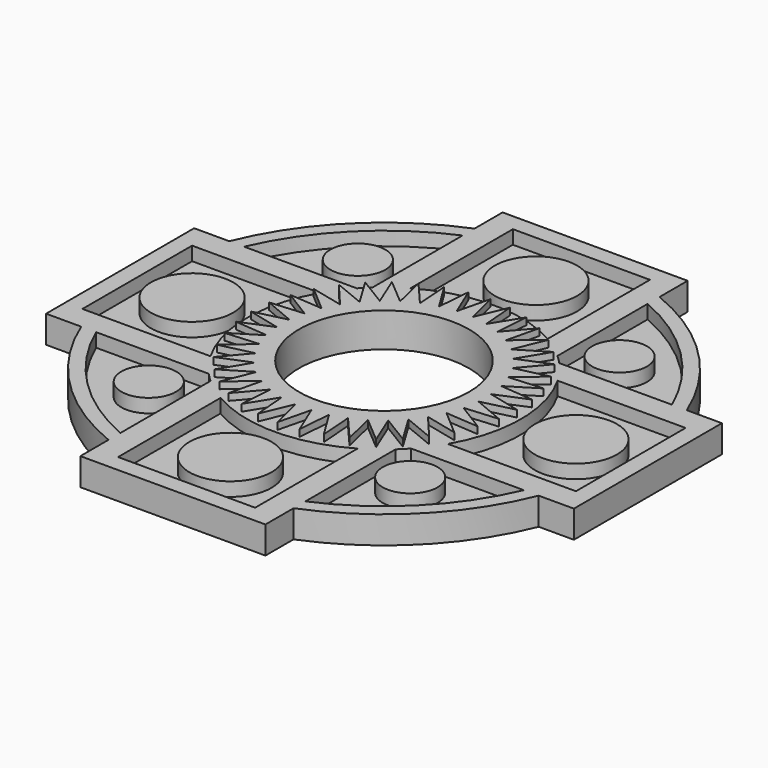
from build123d import *

# Parameters (mm, degrees)
F1_DEPTH  = 12.7
F2_R      = 39.37
F3_DEPTH  = 12.7
F5_DEPTH  = 6.35
F6_R      = 63.5
F6_R_2    = 39.37
F7_DEPTH  = 6.35
F9_DEPTH  = 3.175
F10_R     = 39.37
F11_DEPTH = 3.175
F12_R     = 19.05
F12_R_2   = 12.7
F13_DEPTH = 6.35


with BuildPart() as f1:
    # F0 (on Top) → F1 (new body)
    with BuildSketch(Plane.XY):
        with BuildLine():
            Line((-42.8625, 122.2375), (-42.8625, 105.958936))
            ThreePointArc((-42.8625, 105.958936), (-80.822305, 80.822305), (-105.958936, 42.8625))
            ThreePointArc((-105.958936, 42.8625), (-114.3, 0), (-105.958936, -42.8625))
            ThreePointArc((-105.958936, -42.8625), (-80.822305, -80.822305), (-42.8625, -105.958936))
            ThreePointArc((-42.8625, -105.958936), (0, -114.3), (42.8625, -105.958936))
            ThreePointArc((42.8625, -105.958936), (80.822305, -80.822305), (105.958936, -42.8625))
            Line((105.958936, -42.8625), (122.2375, -42.8625))
            Line((122.2375, -42.8625), (122.2375, 42.8625))
            Line((122.2375, 42.8625), (105.958936, 42.8625))
            ThreePointArc((105.958936, 42.8625), (80.822305, 80.822305), (42.8625, 105.958936))
            Line((42.8625, 105.958936), (42.8625, 122.2375))
            Line((42.8625, 122.2375), (-42.8625, 122.2375))
        make_face()
        with BuildLine():
            ThreePointArc((-105.958936, -42.8625), (-114.3, 0), (-105.958936, 42.8625))
            Line((-105.958936, 42.8625), (-122.2375, 42.8625))
            Line((-122.2375, 42.8625), (-122.2375, -42.8625))
            Line((-122.2375, -42.8625), (-105.958936, -42.8625))
        make_face()
        with BuildLine():
            ThreePointArc((42.8625, -105.958936), (0, -114.3), (-42.8625, -105.958936))
            Line((-42.8625, -105.958936), (-42.8625, -122.2375))
            Line((-42.8625, -122.2375), (42.8625, -122.2375))
            Line((42.8625, -122.2375), (42.8625, -105.958936))
        make_face()
    extrude(amount=F1_DEPTH)

    # F2 (on face) → F3 (cut, through all)
    with BuildSketch(Plane.XY.offset(12.7)):
        Circle(F2_R)
    extrude(amount=-F3_DEPTH, mode=Mode.SUBTRACT)

    # F4 (on face) → F5 (cut)
    with BuildSketch(Plane.XY.offset(12.7)):
        Polygon((31.75, 114.3), (-31.75, 114.3), (-31.75, 31.75), (-114.3, 31.75), (-114.3, -31.75), (-31.75, -31.75), (-31.75, -42.8625), (-31.75, -114.3), (31.75, -114.3), (31.75, -42.8625), (31.75, -31.75), (42.8625, -31.75), (114.3, -31.75), (114.3, 31.75), (31.75, 31.75), align=None)
        with BuildLine():
            Line((-42.8625, -42.8625), (-99.075772, -42.8625))
            ThreePointArc((-99.075772, -42.8625), (-76.332177, -76.332177), (-42.8625, -99.075772))
            Line((-42.8625, -99.075772), (-42.8625, -42.8625))
        make_face()
        with BuildLine():
            Line((42.8625, 42.8625), (99.075772, 42.8625))
            ThreePointArc((99.075772, 42.8625), (76.332177, 76.332177), (42.8625, 99.075772))
            Line((42.8625, 99.075772), (42.8625, 42.8625))
        make_face()
        with BuildLine():
            Line((-42.8625, 42.8625), (-42.8625, 99.075772))
            ThreePointArc((-42.8625, 99.075772), (-76.332177, 76.332177), (-99.075772, 42.8625))
            Line((-99.075772, 42.8625), (-42.8625, 42.8625))
        make_face()
        with BuildLine():
            Line((42.8625, -42.8625), (42.8625, -99.075772))
            ThreePointArc((42.8625, -99.075772), (76.332177, -76.332177), (99.075772, -42.8625))
            Line((99.075772, -42.8625), (42.8625, -42.8625))
        make_face()
    extrude(amount=-F5_DEPTH, mode=Mode.SUBTRACT)

    # F6 (on face) → F7 (join)
    with BuildSketch(Plane.XY.offset(6.35)):
        Circle(F6_R)
        Circle(F6_R_2, mode=Mode.SUBTRACT)
    extrude(amount=F7_DEPTH)

    # F8 (on face) → F9 (join)
    with BuildSketch(Plane.XY.offset(12.7)):
        Polygon((3.656339, 46.667791), (0, 61.695147), (-3.689128, 46.665211), (-9.651247, 60.935578), (-10.943756, 45.513578), (-19.064849, 58.675572), (-17.928912, 43.24125), (-28.009011, 54.970779), (-24.472599, 39.904178), (-36.263498, 49.912423), (-30.41369, 35.584534), (-43.625057, 43.625057), (-35.605894, 30.38868), (-49.912423, 36.263498), (-39.921364, 24.444555), (-54.970779, 28.009011), (-43.253836, 17.898525), (-58.675572, 19.064849), (-45.521256, 10.911774), (-60.935578, 9.651247), (-46.667791, 3.656339), (-61.695147, 0), (-46.665211, -3.689128), (-60.935578, -9.651247), (-45.513578, -10.943756), (-58.675572, -19.064849), (-43.24125, -17.928912), (-54.970779, -28.009011), (-39.904178, -24.472599), (-49.912423, -36.263498), (-35.584534, -30.41369), (-43.625057, -43.625057), (-30.38868, -35.605894), (-36.263498, -49.912423), (-24.444555, -39.921364), (-28.009011, -54.970779), (-17.898525, -43.253836), (-19.064849, -58.675572), (-10.911774, -45.521256), (-9.651247, -60.935578), (-3.656339, -46.667791), (0, -61.695147), (3.689128, -46.665211), (9.651247, -60.935578), (10.943756, -45.513578), (19.064849, -58.675572), (17.928912, -43.24125), (28.009011, -54.970779), (24.472599, -39.904178), (36.263498, -49.912423), (30.41369, -35.584534), (43.625057, -43.625057), (35.605894, -30.38868), (49.912423, -36.263498), (39.921364, -24.444555), (54.970779, -28.009011), (43.253836, -17.898525), (58.675572, -19.064849), (45.521256, -10.911774), (60.935578, -9.651247), (46.667791, -3.656339), (61.695147, 0), (46.665211, 3.689128), (60.935578, 9.651247), (45.513578, 10.943756), (58.675572, 19.064849), (43.24125, 17.928912), (54.970779, 28.009011), (39.904178, 24.472599), (49.912423, 36.263498), (35.584534, 30.41369), (43.625057, 43.625057), (30.38868, 35.605894), (36.263498, 49.912423), (24.444555, 39.921364), (28.009011, 54.970779), (17.898525, 43.253836), (19.064849, 58.675572), (10.911774, 45.521256), (9.651247, 60.935578), align=None)
    extrude(amount=F9_DEPTH)

    # F10 (on face) → F11 (cut, through all)
    with BuildSketch(Plane.XY.offset(15.875)):
        Circle(F10_R)
    extrude(amount=-F11_DEPTH, mode=Mode.SUBTRACT)

    # F12 (on face) → F13 (join)
    with BuildSketch(Plane.XY.offset(12.7)):
        with Locations((0, 87.997574)):
            Circle(F12_R)
        with Locations((60.616729, 60.616729)):
            Circle(F12_R_2)
        with Locations((88.9, 0)):
            Circle(F12_R)
        with Locations((60.616729, -60.616729)):
            Circle(F12_R_2)
        with Locations((0, -88.9)):
            Circle(F12_R)
        with Locations((-59.978617, -61.237198)):
            Circle(F12_R_2)
        with Locations((-88.9, 0)):
            Circle(F12_R)
        with Locations((-60.616729, 60.616729)):
            Circle(F12_R_2)
    extrude(amount=-F13_DEPTH)


solid = f1.part
